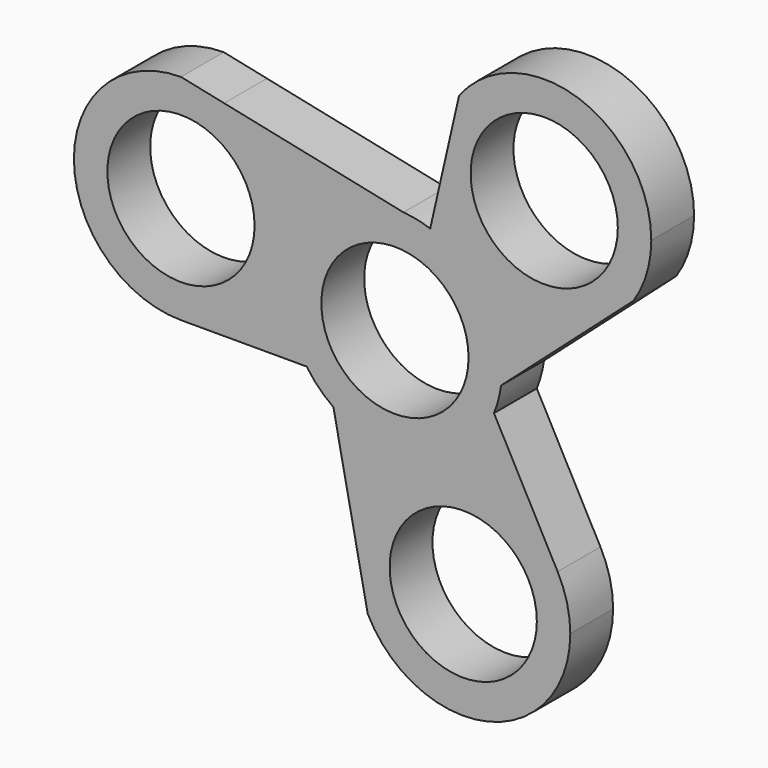
from build123d import *

# Parameters (mm, degrees)
F0_R     = 11
F1_DEPTH = 8


with BuildPart() as f1:
    # F0 (on Front) → F1 (new body)
    with BuildSketch(Plane.XZ):
        with BuildLine():
            ThreePointArc((-13.1943177118, -9.0504132569), (-13.849279578, 8.0123314441), (1.2691267564, 15.9495867431))
            Line((1.2691267564, 15.9495867431), (-25.5304165953, 21.5915278936))
            ThreePointArc((-25.5304165953, 21.5915278936), (-18.5795255312, 15.6899037824), (-15.981273852, 6.9495867431))
            ThreePointArc((-15.981273852, 6.9495867431), (-20.667565353, -4.3641217559), (-31.981273852, -9.0504132569))
            Line((-31.981273852, -9.0504132569), (-13.1943177118, -9.0504132569))
        make_face()
        with BuildLine():
            ThreePointArc((-15.981273852, 6.9495867431), (-18.5795255312, 15.6899037824), (-25.5304165953, 21.5915278936))
            Line((-25.5304165953, 21.5915278936), (-31.981273852, 22.9495867431))
            ThreePointArc((-31.981273852, 22.9495867431), (-47.981273852, 6.9495867431), (-31.981273852, -9.0504132569))
            ThreePointArc((-31.981273852, -9.0504132569), (-20.667565353, -4.3641217559), (-15.981273852, 6.9495867431))
        make_face()
        with Locations((-31.981273852, 6.9495867431)):
            Circle(F0_R, mode=Mode.SUBTRACT)
        with BuildLine():
            ThreePointArc((29.4889629351, 10.0193213161), (15.3296414999, 9.9196283217), (6.6359117776, 21.0961835026))
            Line((6.6359117776, 21.0961835026), (5.2691267564, 15.1074916258))
            ThreePointArc((5.2691267564, 15.1074916258), (13.0442713116, 9.2653648578), (16, 0))
            ThreePointArc((16, 0), (15.9660983487, -1.0410108159), (15.8645370601, -2.0776101336))
            Line((15.8645370601, -2.0776101336), (29.4889629351, 10.0193213161))
        make_face()
        with BuildLine():
            ThreePointArc((16, 0), (13.0442713116, 9.2653648578), (5.2691267564, 15.1074916258))
            ThreePointArc((5.2691267564, 15.1074916258), (3.2961296692, 15.6568045655), (1.2691267564, 15.9495867431))
            ThreePointArc((1.2691267564, 15.9495867431), (-13.849279578, 8.0123314441), (-13.1943177118, -9.0504132569))
            ThreePointArc((-13.1943177118, -9.0504132569), (-11.3754692072, -11.2516087879), (-9.1943177118, -13.0944462202))
            ThreePointArc((-9.1943177118, -13.0944462202), (4.4907750954, -15.3568531621), (14.800765354, -6.0776101336))
            ThreePointArc((14.800765354, -6.0776101336), (15.4625416099, -4.1121535675), (15.8645370601, -2.0776101336))
            ThreePointArc((15.8645370601, -2.0776101336), (15.9660983487, -1.0410108159), (16, 0))
        make_face()
        Circle(F0_R, mode=Mode.SUBTRACT)
        with BuildLine():
            ThreePointArc((35.6560883384, 15.4950231131), (37.6308933821, 19.7112461631), (38.3082806248, 24.3174960793))
            ThreePointArc((38.3082806248, 24.3174960793), (27.4284889877, 39.4761063823), (9.5853473348, 34.0194014848))
            Line((9.5853473348, 34.0194014848), (6.6359117776, 21.0961835026))
            ThreePointArc((6.6359117776, 21.0961835026), (15.3296414999, 9.9196283217), (29.4889629351, 10.0193213161))
            Line((29.4889629351, 10.0193213161), (35.6560883384, 15.4950231131))
        make_face()
        with Locations((22.3082806248, 24.3174960793)):
            Circle(F0_R, mode=Mode.SUBTRACT)
        with BuildLine():
            Line((24.3086172261, -23.8277654665), (14.800765354, -6.0776101336))
            ThreePointArc((14.800765354, -6.0776101336), (4.4907750954, -15.3568531621), (-9.1943177118, -13.0944462202))
            Line((-9.1943177118, -13.0944462202), (-5.7541269407, -30.2334618149))
            ThreePointArc((-5.7541269407, -30.2334618149), (6.8701668376, -15.7338903278), (24.3086172261, -23.8277654665))
        make_face()
        with BuildLine():
            ThreePointArc((26.2045540821, -31.3825919259), (25.7233331949, -27.4880451167), (24.3086172261, -23.8277654665))
            ThreePointArc((24.3086172261, -23.8277654665), (6.8701668376, -15.7338903278), (-5.7541269407, -30.2334618149))
            Line((-5.7541269407, -30.2334618149), (-4.0745447366, -38.6011331168))
            ThreePointArc((-4.0745447366, -38.6011331168), (13.9149731218, -46.9464214851), (26.2045540821, -31.3825919259))
        make_face()
        with Locations((10.2045540821, -31.3825919259)):
            Circle(F0_R, mode=Mode.SUBTRACT)
    extrude(amount=F1_DEPTH)


solid = f1.part
